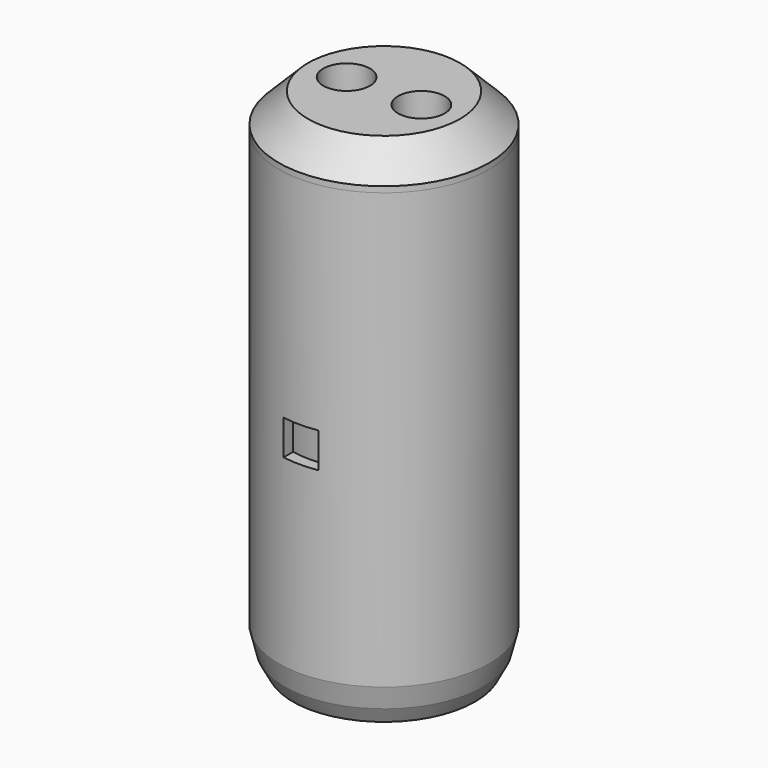
from build123d import *

# Parameters (mm, degrees)
F0_R      = 18
F0_R_2    = 3.2
F1_DEPTH  = 1
F3_R      = 1
F4_DEPTH  = 25
F3_R_2    = 18
F3_R_3    = 16
F5_DEPTH  = 80
F6_W      = 6
F6_H      = 5.9999996329
F7_DEPTH  = 25
F8_R      = 18
F8_R_2    = 16
F9_DEPTH  = 6
F10_R     = 4
F11_DEPTH = 25
F12_SIZE  = 5
F13_SIZE2 = 2.3926924425
F13_SIZE  = 4.5
F14_SIZE  = 2


with BuildPart() as f1:
    # F0 (on Top) → F1 (new body)
    with BuildSketch(Plane.XY):
        Circle(F0_R)
        Circle(F0_R_2, mode=Mode.SUBTRACT)
    extrude(amount=F1_DEPTH)

    # F3 (on face) → F4 (cut)
    with BuildSketch(Plane.XY.offset(1)):
        with Locations((-6.4, 0)):
            Circle(F3_R)
        with Locations((6.4, 0)):
            Circle(F3_R)
    extrude(amount=-F4_DEPTH, mode=Mode.SUBTRACT)

    # F3 (on face) → F5 (join)
    with BuildSketch(Plane.XY.offset(1)):
        Circle(F3_R_2)
        Circle(F3_R_3, mode=Mode.SUBTRACT)
    extrude(amount=F5_DEPTH)

    # F6 (on offset) → F7 (cut)
    with BuildSketch(Plane.XZ.offset(18)):
        with Locations((0, 40.9999998165)):
            Rectangle(F6_W, F6_H)
    extrude(amount=-F7_DEPTH, mode=Mode.SUBTRACT)

    # F13
    f13_edges = [f1.edges().sort_by_distance(p)[0] for p in [
        (-18, 0, 0),
    ]]
    f13_side = f1.faces().sort_by_distance((-18, 0, 40.5))[0]
    chamfer(f13_edges, length=F13_SIZE, length2=F13_SIZE2, reference=f13_side)

    # F14
    f14_edges = [f1.edges().sort_by_distance(p)[0] for p in [
        (-18, 0, 4.5),
    ]]
    chamfer(f14_edges, length=F14_SIZE)


with BuildPart() as f9:
    # F8 (on face) → F9 (new body)
    with BuildSketch(Plane.XY.offset(81)):
        Circle(F8_R)
        Circle(F8_R_2, mode=Mode.SUBTRACT)
        Circle(F8_R_2)
    extrude(amount=F9_DEPTH)

    # F10 (on face) → F11 (cut)
    with BuildSketch(Plane.XY.offset(87)):
        with Locations((-6.4, 0)):
            Circle(F10_R)
        with Locations((6.4, 0)):
            Circle(F10_R)
    extrude(amount=-F11_DEPTH, mode=Mode.SUBTRACT)

    # F12
    f12_edges = [f9.edges().sort_by_distance(p)[0] for p in [
        (-18, 0, 87),
    ]]
    chamfer(f12_edges, length=F12_SIZE)


solid = Compound([f1.part, f9.part])
